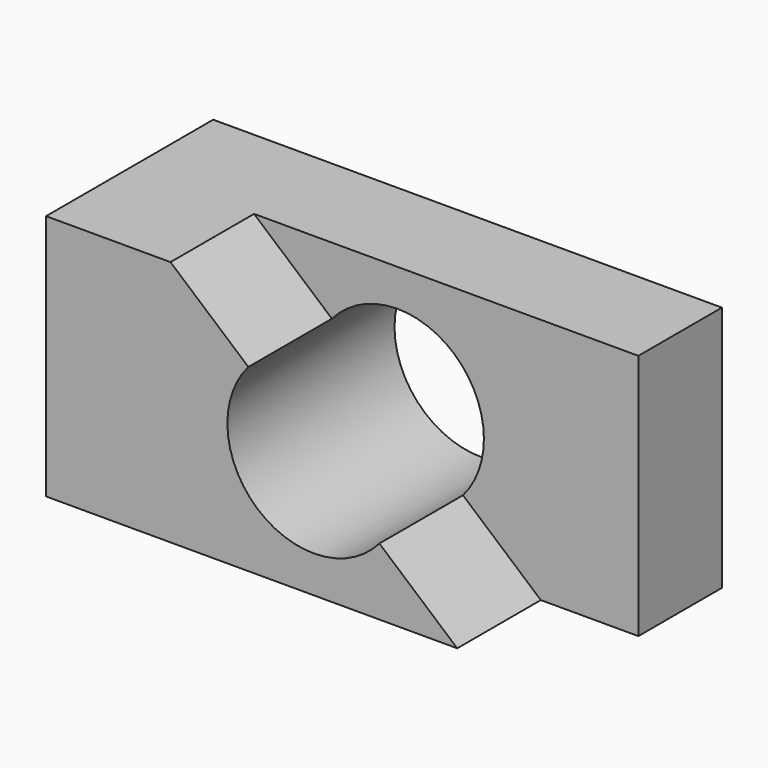
from build123d import *

# Parameters (mm, degrees)
F0_W     = 98.3068589121
F0_H     = 60.0075013936
F1_DEPTH = 25.4
F2_DEPTH = 25.4
F3_DEPTH = 25.4
F5_DEPTH = 25.4
F7_DEPTH = 58.166


with BuildPart() as f1:
    # F0 (on Front) → F1 (new body)
    with BuildSketch(Plane.XZ):
        with Locations((-25.4295347258, 30.0037506968)):
            Rectangle(F0_W, F0_H)
    extrude(amount=F1_DEPTH)

    # F2 (add): a face of the model
    f2_faces = [f1.faces().sort_by_distance(p)[0] for p in [
        (-25.4295347258, -25.4, 30.0037506968),
    ]]
    extrude(f2_faces, amount=F2_DEPTH)

    # F3 (add): a face of the model
    f3_faces = [f1.faces().sort_by_distance(p)[0] for p in [
        (-74.5829641819, -25.4, 30.0037506968),
    ]]
    extrude(f3_faces, amount=F3_DEPTH)

    # F4 (on face) → F5 (cut)
    with BuildSketch(Plane.XZ.offset(50.8)):
        Polygon((23.7238947302, 60.0075013936), (-69.7281658649, 60.0075013936), (0, 0), (23.7238947302, 0), align=None)
    extrude(amount=-F5_DEPTH, mode=Mode.SUBTRACT)

    # F6 (on face) → F7 (cut)
    with BuildSketch(Plane.XZ.offset(50.8)):
        with BuildLine():
            Line((-18.9269924475, 16.2884181963), (-50.8011734174, 43.7190831973))
            ThreePointArc((-50.8011734174, 43.7190831973), (-48.579415433, 14.0666602118), (-18.9269924475, 16.2884181963))
        make_face()
        with BuildLine():
            ThreePointArc((-18.9269924475, 16.2884181963), (-15.1511722743, 22.6892204926), (-13.8378802624, 30.0037506968))
            ThreePointArc((-13.8378802624, 30.0037506968), (-27.5495527283, 49.716661355), (-50.8011734174, 43.7190831973))
            Line((-50.8011734174, 43.7190831973), (-18.9269924475, 16.2884181963))
        make_face()
    extrude(amount=-F7_DEPTH, mode=Mode.SUBTRACT)


solid = f1.part
